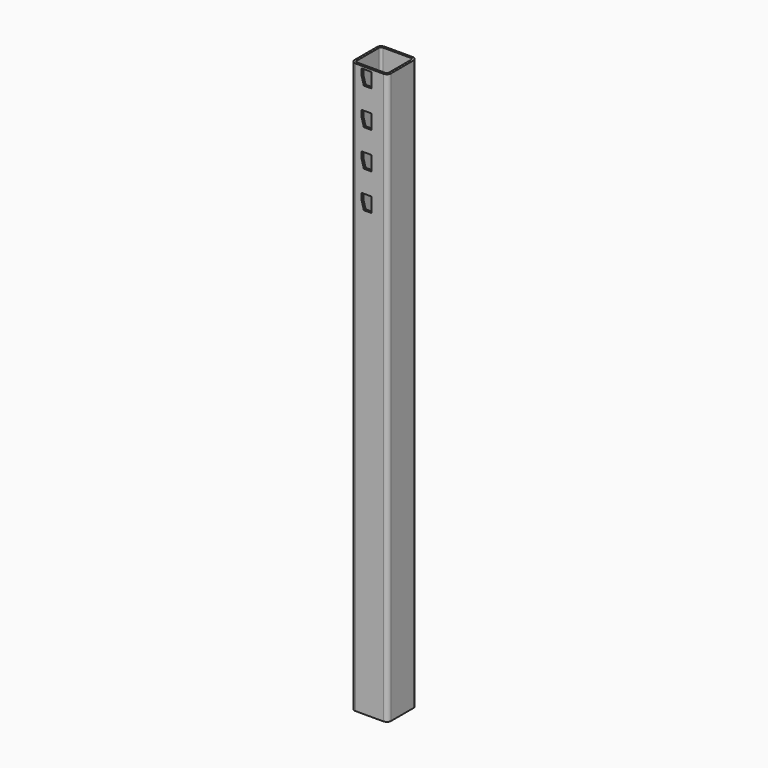
from build123d import *

# Parameters (mm, degrees)
F1_DEPTH = 780
F3_DEPTH = 3


with BuildPart() as f1:
    # F0 (on Top) → F1 (new body)
    with BuildSketch(Plane.XY):
        with BuildLine():
            Line((-19, -25), (19, -25))
            ThreePointArc((19, -25), (23.242641, -23.242641), (25, -19))
            Line((25, -19), (25, 19))
            ThreePointArc((25, 19), (23.242641, 23.242641), (19, 25))
            Line((19, 25), (-19, 25))
            ThreePointArc((-19, 25), (-23.242641, 23.242641), (-25, 19))
            Line((-25, 19), (-25, -19))
            ThreePointArc((-25, -19), (-23.242641, -23.242641), (-19, -25))
        make_face()
        with BuildLine():
            Line((-19, 22), (19, 22))
            ThreePointArc((19, 22), (21.12132, 21.12132), (22, 19))
            Line((22, 19), (22, -19))
            ThreePointArc((22, -19), (21.12132, -21.12132), (19, -22))
            Line((19, -22), (-19, -22))
            ThreePointArc((-19, -22), (-21.12132, -21.12132), (-22, -19))
            Line((-22, -19), (-22, 19))
            ThreePointArc((-22, 19), (-21.12132, 21.12132), (-19, 22))
        make_face(mode=Mode.SUBTRACT)
    extrude(amount=F1_DEPTH)

    # F2 (on face) → F3 (cut)
    with BuildSketch(Plane.XZ.offset(25)):
        Polygon((3.2, 777), (-10.6, 777), (-10.6, 768), (-7.6, 757), (3.2, 757), align=None)
        Polygon((-10.6, 727), (-10.6, 718), (-7.6, 707), (3.2, 707), (3.2, 727), align=None)
        Polygon((-10.6, 677), (-10.6, 668), (-7.6, 657), (3.2, 657), (3.2, 677), align=None)
        Polygon((-10.6, 627), (-10.6, 618), (-7.6, 607), (3.2, 607), (3.2, 627), align=None)
    extrude(amount=-F3_DEPTH, mode=Mode.SUBTRACT)


solid = f1.part
